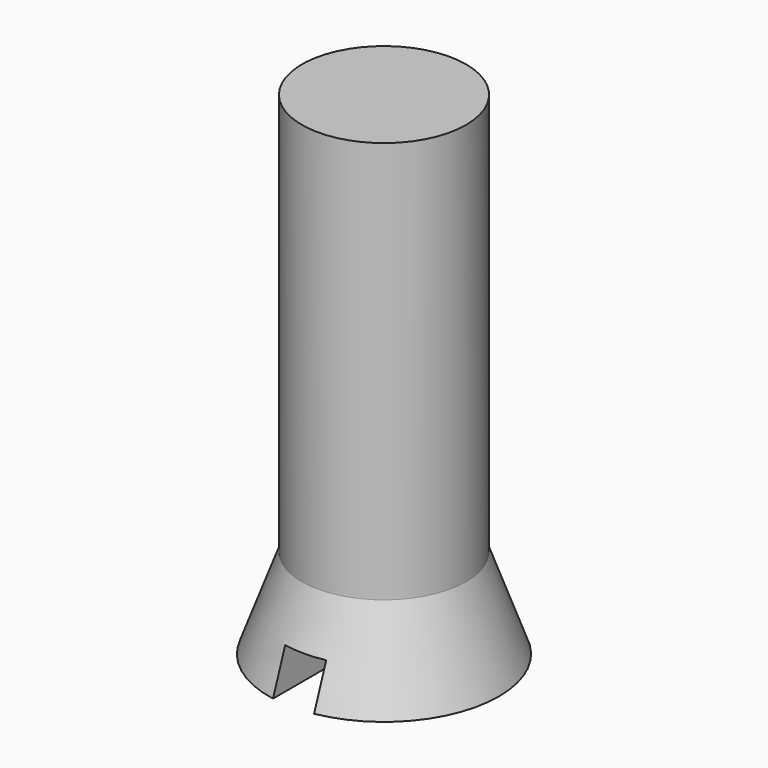
from build123d import *

# Parameters (mm, degrees)
BOX_W          = 1
BOX_H          = 10
BOX_DEPTH      = 1
CYLINDER_R     = 2
CYLINDER_DEPTH = 10


with BuildPart() as cube:
    # Box → Box (new body)
    with BuildSketch(Plane(origin=(-0.5, -5, 0), x_dir=(1, 0, 0), z_dir=(0, 0, 1))):
        with Locations((0.5, 5)):
            Rectangle(BOX_W, BOX_H)
    extrude(amount=BOX_DEPTH)


with BuildPart() as cut:
    # Cone → Cone (revolve)
    with BuildSketch(Plane.XZ):
        Polygon((0, 0), (2.8, 0), (2, 2.2), (0, 2.2), align=None)
    revolve(axis=Axis((0, 0, 0), (0, 0, 1)))

    # Cut: cut Cube
    add(cube.part, mode=Mode.SUBTRACT)


with BuildPart() as fusion:
    # Cylinder → Cylinder (new body)
    with BuildSketch(Plane.XY.offset(2)):
        Circle(CYLINDER_R)
    extrude(amount=CYLINDER_DEPTH)

    # Fusion: union Cut
    add(cut.part)


solid = fusion.part
